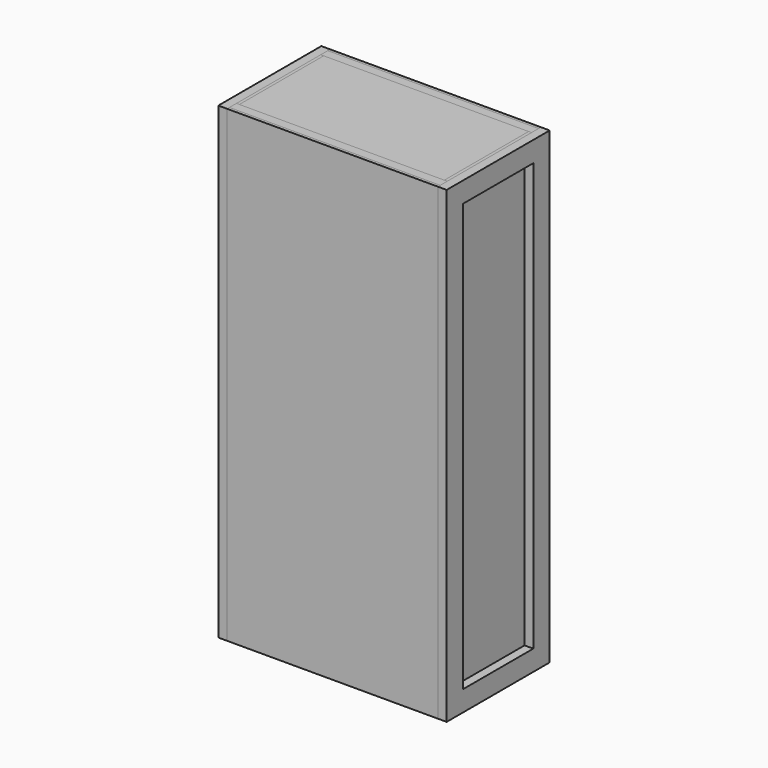
from build123d import *

# Parameters (mm, degrees)
F0_W        = 914.4
F0_H        = 2032
F1_DEPTH    = 279.4
F2_W        = 381
F2_H        = 88.9
F3_DEPTH    = 38.1
F5_W        = 914.4
F5_H        = 88.9
F6_DEPTH    = 38.1
F3_FACE_W   = 558.8
F3_FACE_H   = 2032
F3_FACE_W_2 = 381
F3_FACE_H_2 = 1854.2
F2_H_2      = 1854.2
F9_DEPTH    = 12.7
F11_DEPTH   = 12.7
F12_DEPTH   = 12.7
F14_W       = 914.4
F14_H       = 1943.1
F14_H_2     = 88.9
F15_DEPTH   = 12.7


with BuildPart() as f1:
    # F0 (on Front) → F1 (new body, symmetric)
    with BuildSketch(Plane.XZ):
        Rectangle(F0_W, F0_H)
    extrude(amount=F1_DEPTH, both=True)


with BuildPart() as f3:
    # F2 (on face) → F3 (new body)
    with BuildSketch(Plane.YZ.offset(457.2)):
        Polygon((279.4, 1016), (190.5, 1016), (190.5, 927.1), (190.5, -927.1), (190.5, -1016), (279.4, -1016), align=None)
        with Locations((0, 971.55)):
            Rectangle(F2_W, F2_H)
        Polygon((-190.5, 1016), (-279.4, 1016), (-279.4, -1016), (-190.5, -1016), (-190.5, -927.1), (-190.5, 927.1), align=None)
        with Locations((0, -971.55)):
            Rectangle(F2_W, F2_H)
    extrude(amount=F3_DEPTH)


with BuildPart() as f4_1:
    # F4: instance of F3
    add(f3.part.mirror(Plane.YZ))


with BuildPart() as f6:
    # F5 (on face) → F6 (new body)
    with BuildSketch(Plane.XZ.offset(279.4)):
        with Locations((0, 971.55)):
            Rectangle(F5_W, F5_H)
    extrude(amount=-F6_DEPTH)


with BuildPart() as f6b:
    # F5 (on face) → F6, piece 2 (new body)
    with BuildSketch(Plane.XZ.offset(279.4)):
        with Locations((0, -971.55)):
            Rectangle(F5_W, F5_H)
    extrude(amount=-F6_DEPTH)


with BuildPart() as f6_1:
    # F7: moved
    add(f6.part.moved(Location((0, 12.7, 0))))


with BuildPart() as f6b_1:
    # F7: moved
    add(f6b.part.moved(Location((0, 12.7, 0))))


with BuildPart() as f8_1:
    # F8: copy of F6
    add(f6_1.part.moved(Location((0, 495.3, 0))))


with BuildPart() as f8_2:
    # F8: copy of F6b
    add(f6b_1.part.moved(Location((0, 495.3, 0))))


with BuildPart() as f9:
    # F3_face (on face) + F2 (on face) → F9 (new body)
    with BuildSketch(Plane(origin=(457.2, 0, 0), x_dir=(0, -1, 0), z_dir=(-1, 0, 0))):
        Rectangle(F3_FACE_W, F3_FACE_H)
        Rectangle(F3_FACE_W_2, F3_FACE_H_2, mode=Mode.SUBTRACT)
    with BuildSketch(Plane.YZ.offset(457.2)):
        Rectangle(F2_W, F2_H_2)
    extrude(amount=F9_DEPTH, dir=(-1, 0, 0))

    # F10: cut F8_1, F6b, F6, F8_2
    add(f8_1.part, mode=Mode.SUBTRACT)
    add(f6b_1.part, mode=Mode.SUBTRACT)
    add(f6_1.part, mode=Mode.SUBTRACT)
    add(f8_2.part, mode=Mode.SUBTRACT)

    # F11 (cut): a face of the model
    f11_faces = [f9.faces().sort_by_distance(p)[0] for p in [
        (450.85, 279.4, 0),
    ]]
    extrude(f11_faces, amount=-F11_DEPTH, mode=Mode.SUBTRACT)

    # F12 (cut): a face of the model
    f12_faces = [f9.faces().sort_by_distance(p)[0] for p in [
        (450.85, -279.4, 0),
    ]]
    extrude(f12_faces, amount=-F12_DEPTH, mode=Mode.SUBTRACT)


with BuildPart() as f13_1:
    # F13: copy of F9
    add(f9.part.moved(Location((-901.7, 0, 0))))


with BuildPart() as f15:
    # F14 (on face) → F15 (new body)
    with BuildSketch(Plane(origin=(0, 266.7, 0), x_dir=(-1, 0, 0), z_dir=(0, 1, 0))):
        with Locations((0, -44.45)):
            Rectangle(F14_W, F14_H)
        with Locations((0, 971.55)):
            Rectangle(F14_W, F14_H_2)
    extrude(amount=F15_DEPTH)


solid = Compound([f1.part, f3.part, f4_1.part, f6_1.part, f6b_1.part, f8_1.part, f8_2.part, f9.part, f13_1.part, f15.part])
